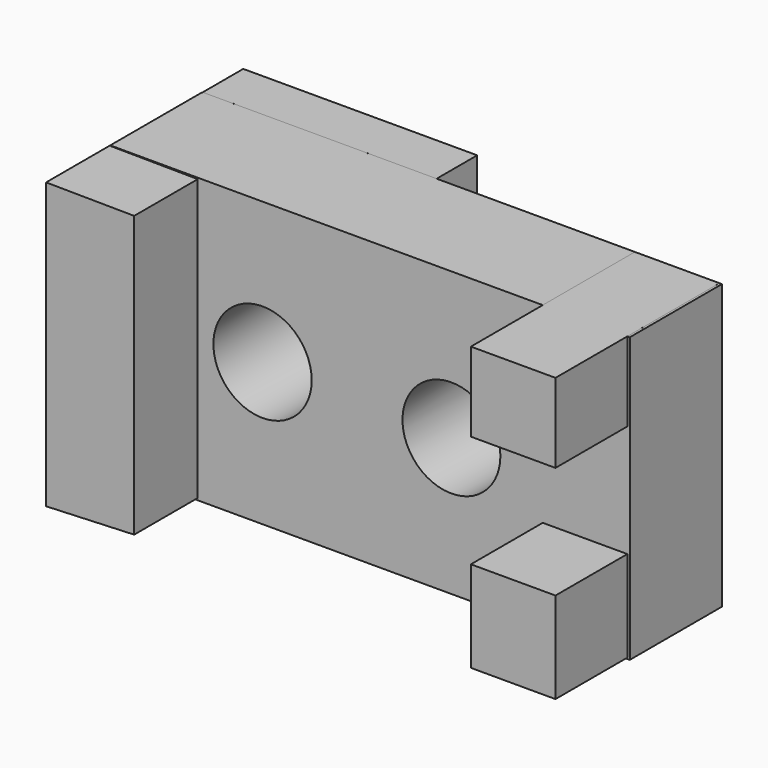
from build123d import *

# Parameters (mm, degrees)
F0_W      = 114.494712
F0_H      = 62.637055
F1_DEPTH  = 25.4
F2_R      = 10.795138
F2_R_2    = 10.841205
F2_R_3    = 10.79514
F3_DEPTH  = 116.84
F5_DEPTH  = 42.926
F6_W      = 51.59115
F6_H      = 62.667213
F7_DEPTH  = 11.176
F8_R      = 10.847006
F9_DEPTH  = 65.532
F10_W     = 18.654421
F10_H     = 20.111804
F10_W_2   = 18.65442
F10_H_2   = 17.488524
F11_DEPTH = 45.212


with BuildPart() as f1:
    # F0 (on Front) → F1 (new body)
    with BuildSketch(Plane.XZ):
        with Locations((-4.824847, 5.261216)):
            Rectangle(F0_W, F0_H)
    extrude(amount=F1_DEPTH)

    # F2 (on Front) → F3 (cut)
    with BuildSketch(Plane.XZ):
        with Locations((13.092266, 4.241542)):
            Circle(F2_R)
        with Locations((-28.568659, 5.406883)):
            Circle(F2_R_2)
        with Locations((-28.568659, 5.406883)):
            Circle(F2_R_3, mode=Mode.SUBTRACT)
        with Locations((-28.568659, 5.406883)):
            Circle(F2_R_3)
    extrude(amount=F3_DEPTH, mode=Mode.SUBTRACT)

    # F4 (on Front) → F5 (join)
    with BuildSketch(Plane.XZ):
        Polygon((-42.860791, -25.608312), (-42.860791, 36.285762), (-62.284995, 36.472697), (-62.284995, -26.409047), align=None)
    extrude(amount=F5_DEPTH)

    # F6 (on Front) → F7 (join)
    with BuildSketch(Plane.XZ):
        with Locations((-36.28869, 5.246557)):
            Rectangle(F6_W, F6_H)
    extrude(amount=-F7_DEPTH)

    # F8 (on Front) → F9 (cut)
    with BuildSketch(Plane.XZ):
        with Locations((-26.232786, 2.563626)):
            Circle(F8_R)
    extrude(amount=-F9_DEPTH, mode=Mode.SUBTRACT)

    # F10 (on Front) → F11 (join)
    with BuildSketch(Plane.XZ):
        with Locations((42.555411, -15.739673)):
            Rectangle(F10_W, F10_H)
        with Locations((42.55541, 27.835902)):
            Rectangle(F10_W_2, F10_H_2)
    extrude(amount=F11_DEPTH)


solid = f1.part
